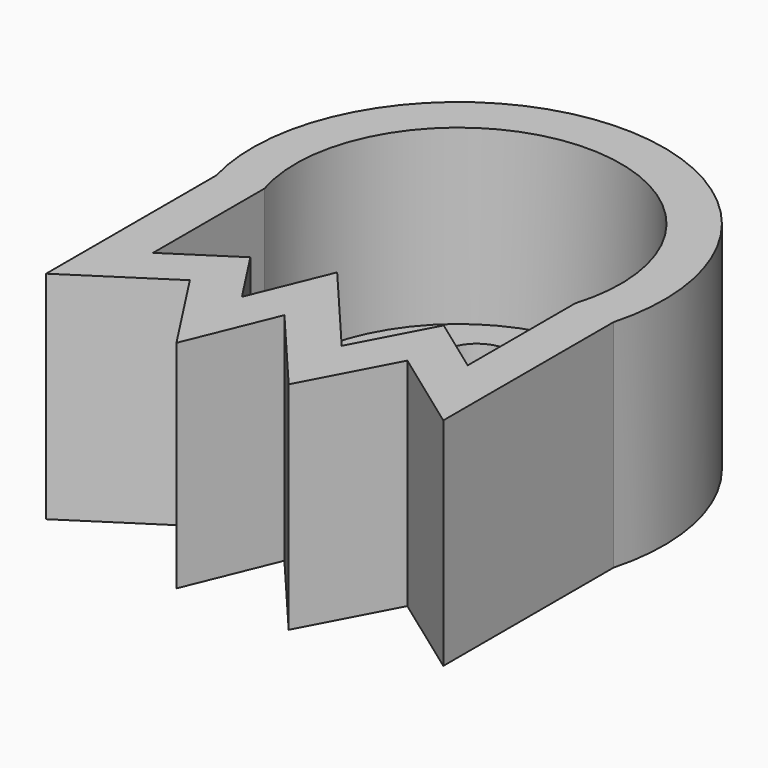
from build123d import *

# Parameters (mm, degrees)
F0_R     = 2.7361365436
F0_R_2   = 5.9630121177
F1_DEPTH = 12.7
F3_T     = -2.54
F2_R     = 2.8890765553
F2_R_2   = 2.0489311255
F4_DEPTH = 61.976


with BuildPart() as f1:
    # F0 (on Top) → F1 (new body)
    with BuildSketch(Plane.XY):
        with BuildLine():
            Line((23.336250335, -12.5060621649), (23.336250335, 0))
            ThreePointArc((23.336250335, 0), (11.6681251675, 15.2751887217), (0, 0))
            Line((0, 0), (0, -12.5060621649))
            Line((0, -12.5060621649), (5.556251388, -8.8944993913))
            Line((5.556251388, -8.8944993913), (8.9647026685, -14.1382715047))
            Line((8.9647026685, -14.1382715047), (11.1124990508, -8.8944993913))
            Line((11.1124990508, -8.8944993913), (15.5575014651, -14.1382715047))
            Line((15.5575014651, -14.1382715047), (18.3356255293, -8.8944993913))
            Line((18.3356255293, -8.8944993913), (23.336250335, -12.5060621649))
        make_face()
        with Locations((4.4449996203, 4.1626878083)):
            Circle(F0_R, mode=Mode.SUBTRACT)
        with Locations((15.5575014651, 4.7183129936)):
            Circle(F0_R_2, mode=Mode.SUBTRACT)
        with Locations((15.5575014651, 4.7183129936)):
            Circle(F0_R_2)
        with Locations((4.4449996203, 4.1626878083)):
            Circle(F0_R)
    extrude(amount=F1_DEPTH)

    # F3
    f3_openings = [f1.faces().sort_by_distance(p)[0] for p in [
        (11.684831, 0.988921, 12.7),
    ]]
    offset(amount=F3_T, openings=f3_openings, kind=Kind.INTERSECTION)

    # F2 (on Top) → F4 (cut)
    with BuildSketch(Plane.XY):
        with Locations((15.2920437977, 8.0478740856)):
            Circle(F2_R)
        with Locations((8.8641922921, 8.0478740856)):
            Circle(F2_R_2)
    extrude(amount=F4_DEPTH, mode=Mode.SUBTRACT)


solid = f1.part
